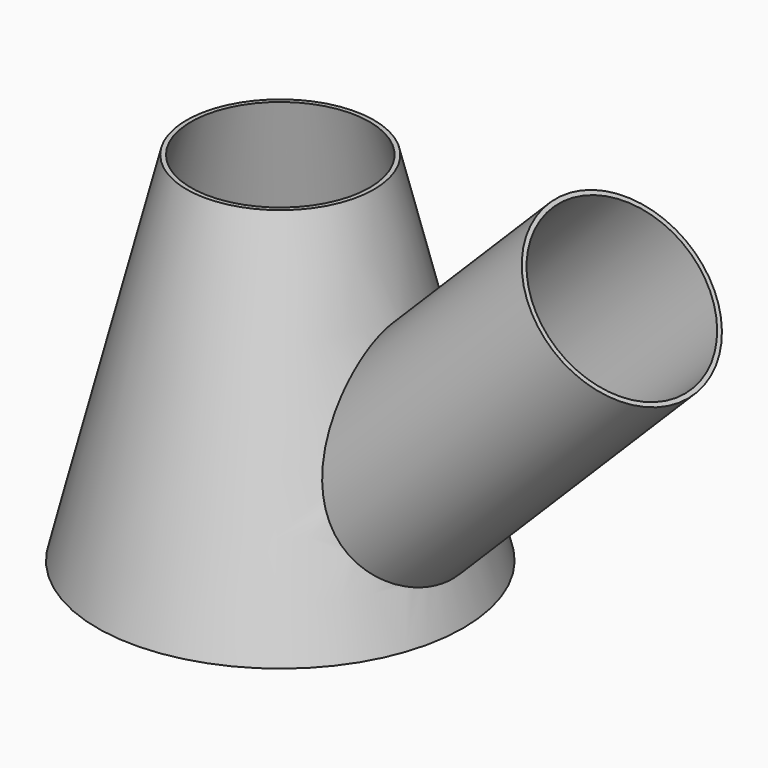
from build123d import *

# Parameters (mm, degrees)
CYLINDER_R              = 100
CYLINDER_DEPTH          = 400
CYLINDER_PITCH_ANGLE    = 45
CYLINDER001_R           = 105
CYLINDER001_DEPTH       = 400
CYLINDER001_PITCH_ANGLE = 45


with BuildPart() as cylinder:
    # Cylinder → Cylinder (new body)
    with BuildSketch(Plane.XY):
        Circle(CYLINDER_R)
    extrude(amount=CYLINDER_DEPTH)


with BuildPart() as cylinder_1:
    # Cylinder pitch: moved
    add(cylinder.part.rotate(Axis((0, 0, 0), (0, 1, 0)), CYLINDER_PITCH_ANGLE))


with BuildPart() as cylinder_2:
    # Cylinder placement: moved
    add(cylinder_1.part.moved(Location((99.702056, 0, 99.702056))))


with BuildPart() as fusion:
    # Cone → Cone (revolve)
    with BuildSketch(Plane.XZ):
        Polygon((0, 0), (200, 0), (100, 400), (0, 400), align=None)
    revolve(axis=Axis((0, 0, 0), (0, 0, 1)))

    # Fusion: union Cylinder
    add(cylinder_2.part)


with BuildPart() as cylinder001:
    # Cylinder001 → Cylinder001 (new body)
    with BuildSketch(Plane.XY):
        Circle(CYLINDER001_R)
    extrude(amount=CYLINDER001_DEPTH)


with BuildPart() as cylinder001_1:
    # Cylinder001 pitch: moved
    add(cylinder001.part.rotate(Axis((0, 0, 0), (0, 1, 0)), CYLINDER001_PITCH_ANGLE))


with BuildPart() as cylinder001_2:
    # Cylinder001 placement: moved
    add(cylinder001_1.part.moved(Location((99.702056, 0, 99.702056))))


with BuildPart() as cut:
    # Cone001 → Cone001 (revolve)
    with BuildSketch(Plane.XZ):
        Polygon((0, 0), (205, 0), (105, 400), (0, 400), align=None)
    revolve(axis=Axis((0, 0, 0), (0, 0, 1)))

    # Fusion001: union Cylinder001
    add(cylinder001_2.part)

    # Cut: cut Fusion
    add(fusion.part, mode=Mode.SUBTRACT)


solid = cut.part
